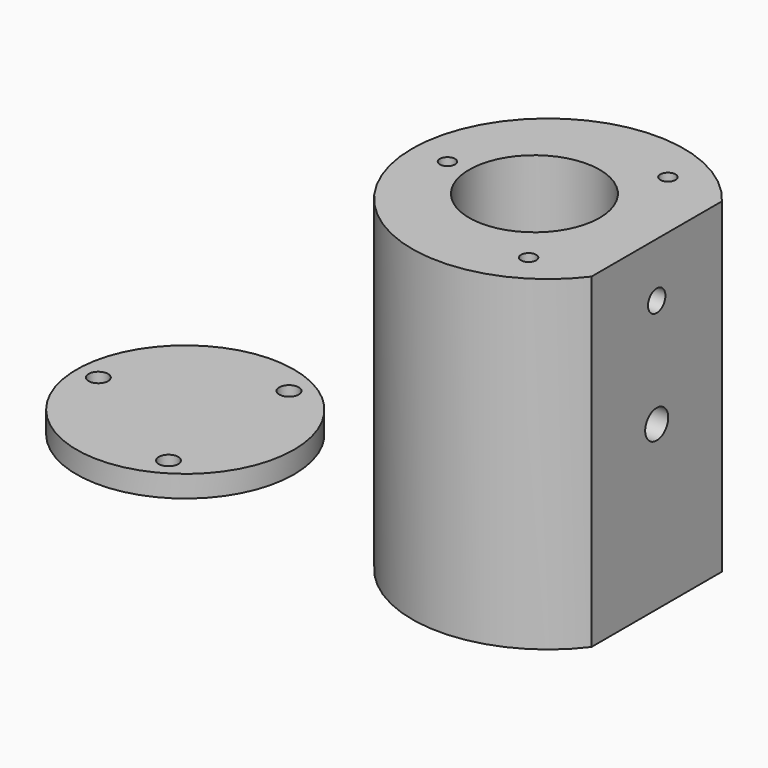
from build123d import *

# Parameters (mm, degrees)
F0_R     = 6
F1_DEPTH = 30
F2_D     = 1.4
F4_D     = 2.65
F4_DEPTH = 10
F5_D     = 2
F5_DEPTH = 10
F6_R     = 10
F6_R_2   = 6
F7_DEPTH = 2
F8_DEPTH = 3
F9_D     = 1.8


with BuildPart() as f1:
    # F0 (on Top) → F1 (new body)
    with BuildSketch(Plane.XY):
        with BuildLine():
            Line((10, -7.5), (10, 7.5))
            ThreePointArc((10, 7.5), (-12.5, 0), (10, -7.5))
        make_face()
        with Locations((-1.25, 0)):
            Circle(F0_R, mode=Mode.SUBTRACT)
    extrude(amount=F1_DEPTH)

    # F2 (through all)
    with Locations(Plane(origin=(0, 0, 0), x_dir=(1, 0, 0), z_dir=(0, 0, -1))):
        with Locations((-9.25, 0), (4.625, 8.010735), (4.625, -8.010735)):
            Hole(F2_D / 2)

    # F4
    with Locations(Plane.YZ.offset(10)):
        with Locations((0, 15)):
            Hole(F4_D / 2, depth=F4_DEPTH)

    # F5
    with Locations(Plane.YZ.offset(10)):
        with Locations((0, 25)):
            Hole(F5_D / 2, depth=F5_DEPTH)


with BuildPart() as f7:
    # F6 (on face) → F7 (new body)
    with BuildSketch(Plane.XY):
        with Locations((-35.855876, 3.109021)):
            Circle(F6_R)
        with Locations((-35.855876, 3.109021)):
            Circle(F6_R_2, mode=Mode.SUBTRACT)
    extrude(amount=-F7_DEPTH)

    # F6 (on face) → F8 (join)
    with BuildSketch(Plane.XY):
        with Locations((-35.855876, 3.109021)):
            Circle(F6_R_2)
    extrude(amount=-F8_DEPTH)

    # F9 (through all)
    with Locations(Plane.XY):
        with Locations((-31.855876, 10.037224), (-43.855876, 3.109021), (-31.855876, -3.819182)):
            Hole(F9_D / 2)


solid = Compound([f1.part, f7.part])
